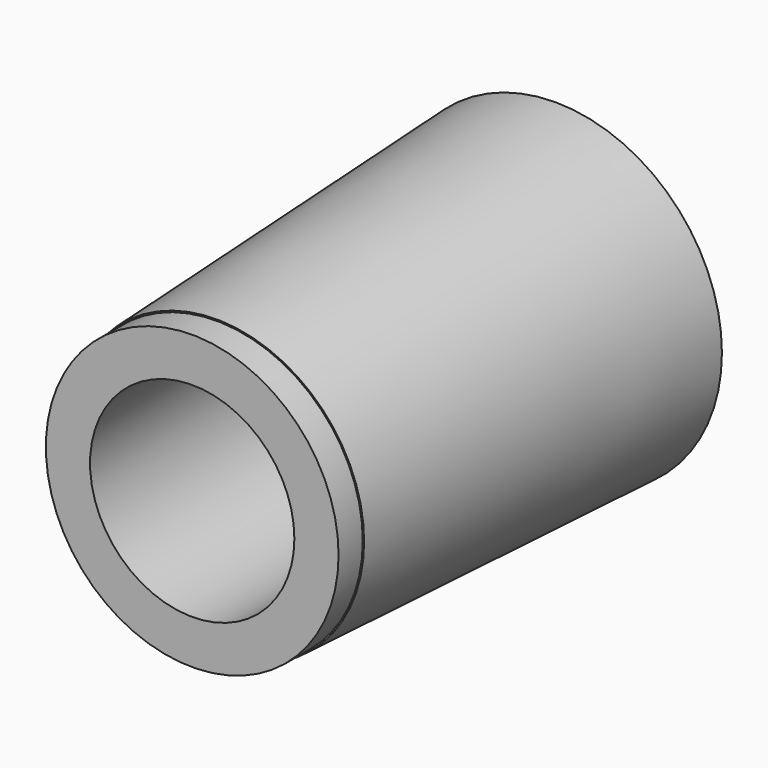
from build123d import *

# Parameters (mm, degrees)
F0_R      = 5.5
F2_DEPTH  = 14
F1_R      = 4.835
F3_DEPTH  = 15
F3_FACE_R = 4.835
F2_FACE_R = 5.5
F5_R      = 3.375
F6_DEPTH  = 16


with BuildPart() as f2:
    # F0 (on Front) → F2 (new body)
    with BuildSketch(Plane.XZ):
        Circle(F0_R)
    extrude(amount=F2_DEPTH)

    # F1 (on Front) → F3 (join)
    with BuildSketch(Plane.XZ):
        Circle(F1_R)
    extrude(amount=F3_DEPTH)

    # F3_face (on face) → F4 section 0
    with BuildSketch(Plane.XZ.offset(15)):
        Circle(F3_FACE_R)
    # F2_face (on face) → F4 section 1
    with BuildSketch(Plane(origin=(0, 0, 0), x_dir=(1, 0, 0), z_dir=(0, 1, 0))):
        Circle(F2_FACE_R)
    loft(mode=Mode.INTERSECT)

    # F5 (on face) → F6 (cut)
    with BuildSketch(Plane.XZ.offset(15)):
        Circle(F5_R)
    extrude(amount=-F6_DEPTH, mode=Mode.SUBTRACT)


solid = f2.part
